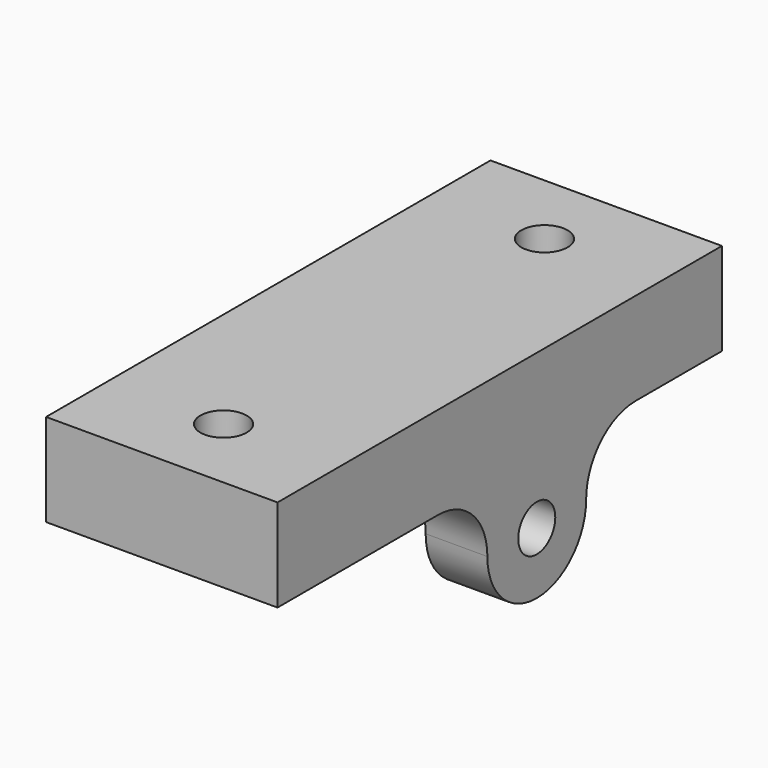
from build123d import *

# Parameters (mm, degrees)
SKETCH007_R     = 1.5
PAD002_DEPTH    = 7.5
SKETCH008_W     = 17.891225
SKETCH008_H     = 7
POCKET005_DEPTH = 36.001
SKETCH009_R     = 1.5
POCKET006_DEPTH = 6.001
SKETCH010_R     = 3
POCKET007_DEPTH = 3


with BuildPart() as bottom001:
    # Sketch007 → Pad002 (new body, symmetric)
    with BuildSketch(Plane.YZ):
        with BuildLine():
            ThreePointArc((4, 0), (0, 4), (-4, 0))
            ThreePointArc((-8, -4), (-5.171573, -2.828427), (-4, 0))
            Line((-21, -4), (-8, -4))
            Line((-21, -10), (-21, -4))
            Line((15, -10), (-21, -10))
            Line((15, -4), (15, -10))
            Line((8, -4), (15, -4))
            ThreePointArc((4, 0), (5.171573, -2.828427), (8, -4))
        make_face()
        Circle(SKETCH007_R, mode=Mode.SUBTRACT)
    extrude(amount=PAD002_DEPTH, both=True)

    # Sketch008 (on Face4 of Pad002) → Pocket005 (cut, through all)
    with BuildSketch(Plane(origin=(0, -21, 0), x_dir=(0, 0, -1), z_dir=(0, -1, 0))):
        with Locations((-4.945612, 0)):
            Rectangle(SKETCH008_W, SKETCH008_H)
    extrude(amount=-POCKET005_DEPTH, mode=Mode.SUBTRACT)

    # Sketch009 (on Face16 of Pocket005) → Pocket006 (cut, through all)
    with BuildSketch(Plane(origin=(0, 0, -4), x_dir=(0, -1, 0), z_dir=(0, 0, 1))):
        with Locations((16, 0)):
            Circle(SKETCH009_R)
        with Locations((-10, 0)):
            Circle(SKETCH009_R)
    extrude(amount=-POCKET006_DEPTH, mode=Mode.SUBTRACT)

    # Sketch010 (on Face5 of Pocket006) → Pocket007 (cut)
    with BuildSketch(Plane(origin=(0, 0, -4), x_dir=(0, -1, 0), z_dir=(0, 0, 1))):
        with Locations((-10, 0)):
            Circle(SKETCH010_R)
        with Locations((16, 0)):
            Circle(SKETCH010_R)
    extrude(amount=-POCKET007_DEPTH, mode=Mode.SUBTRACT)


with BuildPart() as part_mirroring001:
    # Part__Mirroring001: instance of Bottom001
    add(bottom001.part.mirror(Plane(origin=(0, 0, 0), x_dir=(0, 1, 0), z_dir=(0, 0, 1))))


solid = part_mirroring001.part
